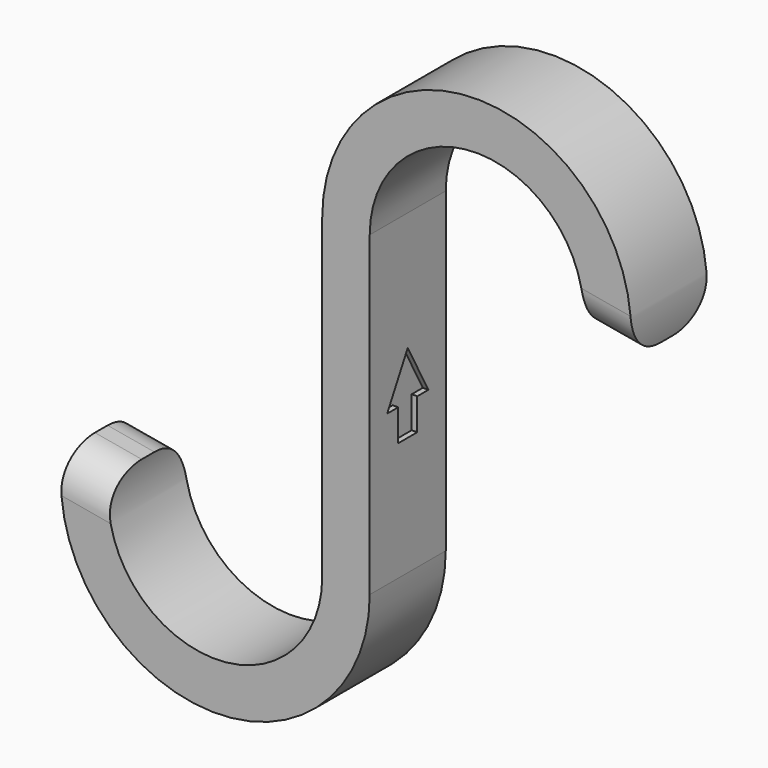
from build123d import *

# Parameters (mm, degrees)
SKETCH003_W       = 6
SKETCH003_H       = 12
POCKET_DEPTH      = 36.001
POCKET_DEPTH_BACK = 36.001
FILLET_R          = 5
PAD_DEPTH         = 2.3


with BuildPart() as part:
    # AdditivePipe: sweep along a path in Sketch
    with BuildLine(Plane.XZ) as additivepipe_path:
        ThreePointArc((-32.749328, -17.134805), (-17.93807, -36.437213), (0, -20))
        Line((0, -20), (0, 20))
        ThreePointArc((0, 20), (17.93807, 36.437213), (32.749328, 17.134805))
    # Sketch003 → AdditivePipe (sweep)
    with BuildSketch(Plane.XY):
        Rectangle(SKETCH003_W, SKETCH003_H)
    sweep(path=additivepipe_path.line)

    # Sketch002 → Pocket (cut, two sides)
    with BuildSketch(Plane.YZ) as pocket_sk:
        Polygon((3.25, -1), (0, 5), (-3.25, -1), (-1.5, -1), (-1.5, -5), (1.5, -5), (1.5, -1), align=None)
    extrude(amount=-POCKET_DEPTH, mode=Mode.SUBTRACT)
    extrude(pocket_sk.sketch, amount=POCKET_DEPTH_BACK, mode=Mode.SUBTRACT)

    # Fillet
    fillet_edges = [part.edges().sort_by_distance(p)[0] for p in [
        (32.749328, 6, 17.134805),
        (32.749328, -6, 17.134805),
        (-32.749328, -6, -17.134805),
        (-32.749328, 6, -17.134805),
    ]]
    fillet(fillet_edges, radius=FILLET_R)

    # Sketch002 → Pad (join, symmetric)
    with BuildSketch(Plane.YZ):
        Polygon((3.25, -1), (0, 5), (-3.25, -1), (-1.5, -1), (-1.5, -5), (1.5, -5), (1.5, -1), align=None)
    extrude(amount=PAD_DEPTH, both=True)


solid = part.part
